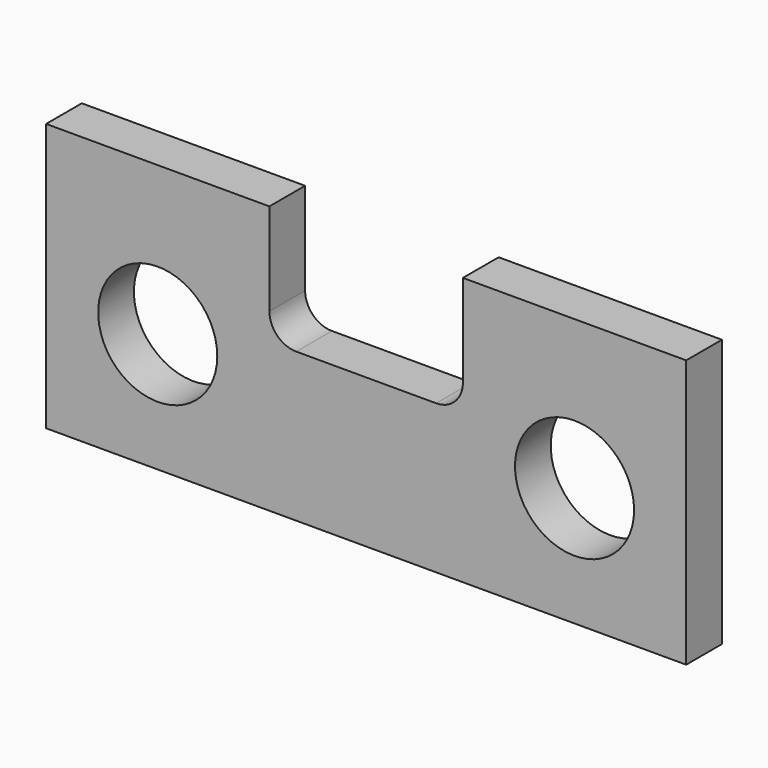
from build123d import *

# Parameters (mm, degrees)
F0_W     = 273.05
F0_H     = 114.3
F1_DEPTH = 19.05
F2_R     = 25.4
F3_DEPTH = 25.4
F5_DEPTH = 25.4


with BuildPart() as f1:
    # F0 (on Front) → F1 (new body)
    with BuildSketch(Plane.XZ):
        with Locations((136.525, 57.15)):
            Rectangle(F0_W, F0_H)
    extrude(amount=F1_DEPTH)

    # F2 (on face) → F3 (cut)
    with BuildSketch(Plane.XZ.offset(19.05)):
        with Locations((225.425, 50.8)):
            Circle(F2_R)
        with Locations((47.625, 50.8)):
            Circle(F2_R)
    extrude(amount=-F3_DEPTH, mode=Mode.SUBTRACT)

    # F4 (on face) → F5 (cut)
    with BuildSketch(Plane.XZ.offset(19.05)):
        with BuildLine():
            Line((177.8, 114.3), (95.25, 114.3))
            Line((95.25, 114.3), (95.25, 74.93))
            ThreePointArc((95.25, 74.93), (98.597769, 66.847769), (106.68, 63.5))
            Line((106.68, 63.5), (166.37, 63.5))
            ThreePointArc((166.37, 63.5), (174.452231, 66.847769), (177.8, 74.93))
            Line((177.8, 74.93), (177.8, 114.3))
        make_face()
    extrude(amount=-F5_DEPTH, mode=Mode.SUBTRACT)


solid = f1.part
